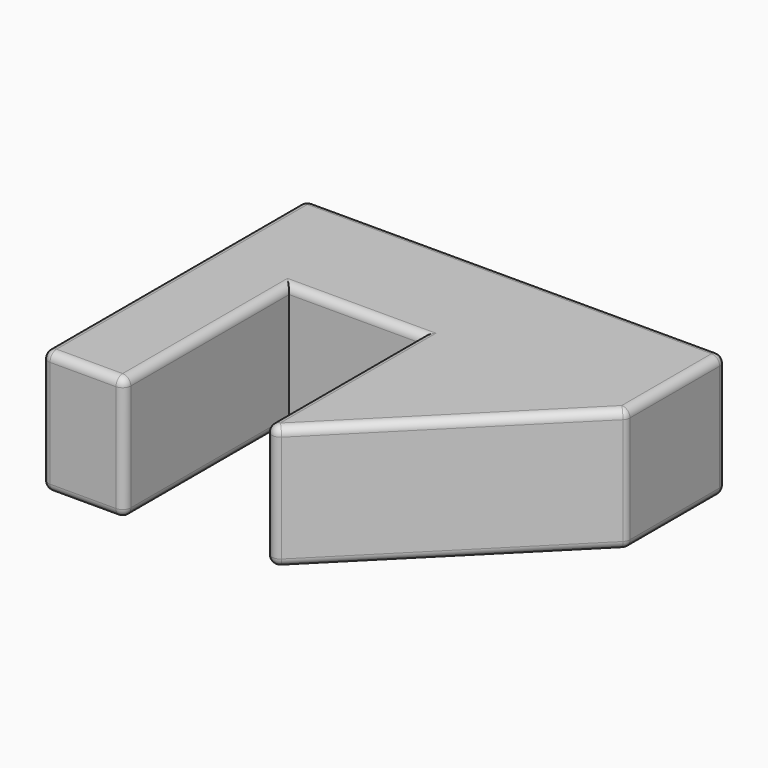
from build123d import *

# Parameters (mm, degrees)
PAD_DEPTH = 15
FILLET_R  = 1


with BuildPart() as part:
    # Sketch → Pad (new body)
    with BuildSketch(Plane.XY):
        Polygon((0, 0), (0, 40), (51, 40), (51, 25), (26, 0), (26, 25), (10, 25), (10, 0), align=None)
    extrude(amount=PAD_DEPTH)

    # Fillet
    fillet_edges = [part.edges().sort_by_distance(p)[0] for p in [
        (5, 0, 15),
        (0, 0, 7.5),
        (10, 0, 7.5),
        (10, 12.5, 15),
        (18, 25, 15),
        (26, 12.5, 15),
        (38.5, 12.5, 15),
        (38.5, 12.5, 0),
        (26, 0, 7.5),
        (51, 25, 7.5),
        (0, 20, 15),
        (0, 20, 0),
        (0, 40, 7.5),
        (51, 32.5, 15),
        (18, 25, 0),
        (5, 0, 0),
        (10, 12.5, 0),
        (26, 12.5, 0),
        (25.5, 40, 0),
        (51, 32.5, 0),
        (51, 40, 7.5),
        (25.5, 40, 15),
    ]]
    fillet(fillet_edges, radius=FILLET_R)


solid = part.part
